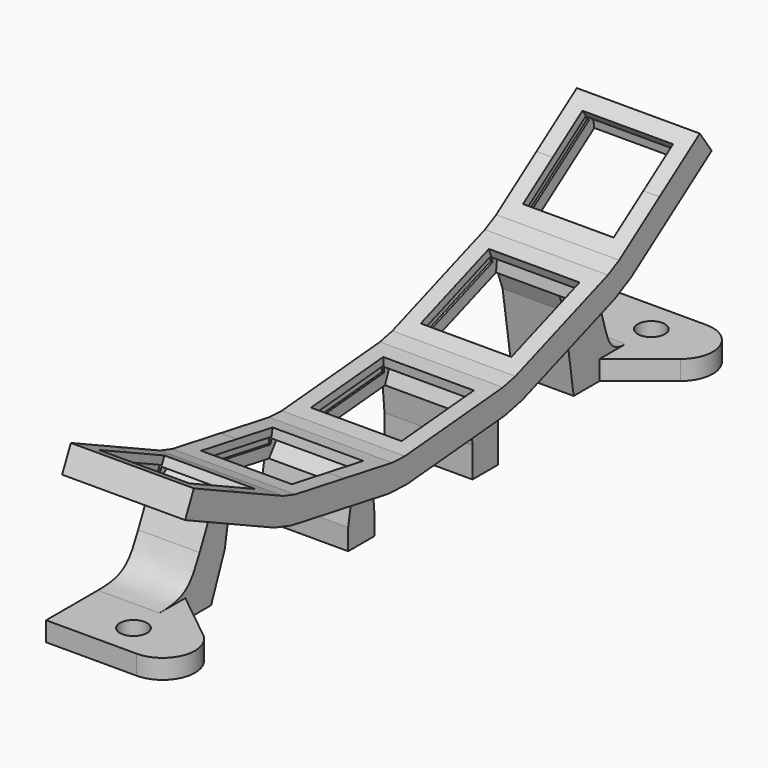
from build123d import *

# Parameters (mm, degrees)
PAD004_DEPTH      = 9.5
POCKET002_DEPTH   = 7
POCKET003_DEPTH   = 7.3
PAD005_DEPTH      = 4.1
PAD005_DEPTH_BACK = 9.5
PAD006_DEPTH      = 9.5
SKETCH011_R       = 2.1
PAD007_DEPTH      = 3


with BuildPart() as part:
    # Sketch006 → Pad004 (new body, symmetric)
    with BuildSketch(Plane.YZ):
        Polygon((-32.9942494922, 17.1338231546), (-30.6406576873, 16.391738509), (-21.2849840337, 14.7420808212), (-11.9293103801, 13.0924231333), (-9.4638496319, 12.9847787924), (0, 13.8127583485), (9.4638496319, 14.6407379046), (11.8731622478, 15.1748696522), (20.8002421453, 18.4240610138), (29.7273220428, 21.6732523754), (31.9162958532, 22.8127600156), (39.698240274, 28.2617361609), (47.4801846947, 33.7107123063), (49.7744904401, 30.4341041291), (34.2106015986, 19.5361518385), (31.0954026161, 17.9144818922), (13.2412428211, 11.416099169), (9.8124726029, 10.6559591122), (-9.1152266609, 9), (-12.6239030908, 9.1531921213), (-31.335250398, 12.452507497), (-34.6847225392, 13.5085920065), (-51.9045704929, 21.5383389795), (-50.2140974459, 25.1635701277), (-41.604173469, 21.1486966411), align=None)
    extrude(amount=PAD004_DEPTH, both=True)

    # Sketch007 → Pocket002 (cut, symmetric)
    with BuildSketch(Plane.YZ):
        Polygon((-47.9483279783, 24.1070244733), (-41.604173469, 21.1486966411), (-35.2600189598, 18.190368809), (-35.851691083, 16.9215409646), (-34.6734901492, 16.3721368463), (-36.9504920067, 14.5651376608), (-43.294646516, 17.523465493), (-49.6388010253, 20.4817933252), (-49.7182041475, 23.3876021985), (-48.5400041575, 22.8381985203), align=None)
        Polygon((-29.7019974965, 14.804630135), (-28.4217472419, 14.5788874731), (-28.1786383048, 15.9576180648), (-21.2849840337, 14.7420808212), (-14.3913297626, 13.5265435775), (-14.6344274412, 12.1478110005), (-13.3541800296, 11.9220688399), (-15.0859224733, 9.5873125655), (-21.9795767444, 10.8028498091), (-28.8732310155, 12.0183870528), align=None)
        Polygon((-6.6247399157, 9.2178893569), (-8.1463839625, 11.6946943305), (-6.8513283894, 11.8079970117), (-6.9733628866, 13.2026681492), (0, 13.8127583485), (6.9733628866, 14.4228485477), (7.095395924, 13.0281772825), (8.3904444797, 13.1414793498), (7.3219858576, 10.4380697553), (0.348622971, 9.8279795561), align=None)
        Polygon((15.5904743731, 12.2711495273), (13.4796296113, 14.2697270733), (14.7012314553, 14.7143537827), (14.2223937998, 16.0299200105), (20.8002421453, 18.4240610138), (27.3780904908, 20.818202017), (27.8569290373, 19.5026361135), (29.0785289333, 19.9472621139), (28.7461710641, 17.0594315339), (22.1683227186, 14.6652905306), align=None)
        Polygon((33.7022727222, 22.354230058), (34.767171014, 23.0998798694), (33.964175964, 24.2467011065), (39.698240274, 28.2617361609), (45.432304584, 32.2767712154), (46.2353056829, 31.1299542137), (47.3002033022, 31.8756035543), (47.7266103294, 29.0001630382), (41.9925460194, 24.9851279838), (36.2584817094, 20.9700929293), align=None)
    extrude(amount=POCKET002_DEPTH, both=True, mode=Mode.SUBTRACT)

    # Sketch008 → Pocket003 (cut, symmetric)
    with BuildSketch(Plane.YZ):
        Polygon((-35.7671703922, 17.102803903), (-36.1897895022, 16.1964965115), (-48.8781021225, 22.1131538553), (-48.4554829527, 23.0194612191), align=None)
        Polygon((-28.3870207956, 14.775849586), (-28.5606769662, 13.7910432424), (-14.7733577548, 11.3599668738), (-14.5997025558, 12.3447733887), align=None)
        Polygon((-6.868761328, 12.0072357948), (-6.7816137953, 11.0110403784), (7.1651117911, 12.2312207605), (7.0779629304, 13.2274160607), align=None)
        Polygon((14.6328221673, 14.9022903926), (14.9748345944, 13.9625949634), (28.1305323349, 18.7508773519), (27.7885220547, 19.6905735626), align=None)
        Polygon((34.6524568713, 23.2637110798), (35.226028111, 22.4445553966), (46.6941615913, 30.4746289088), (46.1205890527, 31.2937836823), align=None)
    extrude(amount=POCKET003_DEPTH, both=True, mode=Mode.SUBTRACT)

    # Sketch009 → Pad005 (join, two sides)
    with BuildSketch(Plane.YZ) as pad005_sk:
        Polygon((-11.9293103801, 13.0924231333), (-9.4638496319, 12.9847787924), (-8.5923056044, 3.0228306391), (-8.5923056044, 0), (-13.665804294, 0), (-13.665804294, 3.2443477433), align=None)
        Polygon((9.4638496319, 14.6407379046), (11.8731622478, 15.1748696522), (15.293346498, 5.7779371902), (15.293346498, 0), (10.3353958888, 0), (10.3353958888, 4.6787899464), align=None)
    extrude(amount=PAD005_DEPTH)
    extrude(pad005_sk.sketch, amount=-PAD005_DEPTH_BACK)

    # Sketch010 → Pad006 (join)
    with BuildSketch(Plane.YZ):
        with BuildLine():
            Line((-37.220455582, 8.0707562296), (-32.9942494922, 17.1338231546))
            Line((-32.9942494922, 17.1338231546), (-30.6406576873, 16.391738509))
            Line((-30.6406576873, 16.391738509), (-32.3771550527, 6.5436637276))
            Line((-32.3771550527, 6.5436637276), (-35, 0))
            Line((-35, 0), (-45, 0))
            Line((-45, 0), (-45, 3))
            add(Edge.make_bspline(
                [(-37.220455582, 8.0707562296), (-39.0097101265, 4.2337134215), (-40, 3), (-45, 3)],
                knots=[0, 0, 0, 0, 1, 1, 1, 1], degree=3))
        make_face()
        with BuildLine():
            Line((33.1475090555, 12.2763209189), (29.7273220428, 21.6732523754))
            Line((29.7273220428, 21.6732523754), (31.9162958532, 22.8127600156))
            Line((31.9162958532, 22.8127600156), (37.6520604346, 14.6212397252))
            add(Edge.make_bspline(
                [(37.6520604346, 14.6212397252), (42.2621198256, 8.0373929676), (40, 3), (45, 3)],
                knots=[0, 0, 0, 0, 1, 1, 1, 1], degree=3))
            Line((45, 3), (45, 0))
            Line((45, 0), (35, 0))
            Line((35, 0), (33.1475090555, 12.2763209189))
        make_face()
    extrude(amount=-PAD006_DEPTH)

    # Sketch011 → Pad007 (join)
    with BuildSketch(Plane.XY):
        with BuildLine():
            Line((0, 45), (-9.5, 45))
            Line((-9.5, 45), (-9.5, 55))
            Line((-9.5, 55), (4.5, 55))
            ThreePointArc((7.6224992299, 46.0948753465), (9.218348401, 51.6544450327), (4.5, 55))
            Line((7.6224992299, 46.0948753465), (0, 40))
            Line((0, 40), (0, 45))
        make_face()
        with Locations((0, 50)):
            Circle(SKETCH011_R, mode=Mode.SUBTRACT)
        with BuildLine():
            Line((0, -40), (0, -45))
            Line((0, -45), (-9.5, -45))
            Line((-9.5, -45), (-9.5, -55))
            Line((-9.5, -55), (4.5, -55))
            ThreePointArc((4.5, -55), (9.218348401, -51.6544450327), (7.6224992299, -46.0948753465))
            Line((7.6224992299, -46.0948753465), (0, -40))
        make_face()
        with Locations((0, -50)):
            Circle(SKETCH011_R, mode=Mode.SUBTRACT)
    extrude(amount=PAD007_DEPTH)


with BuildPart() as part_1:
    # Body001 placement: moved
    add(part.part.moved(Location((30, -10, 15))))


solid = part_1.part
